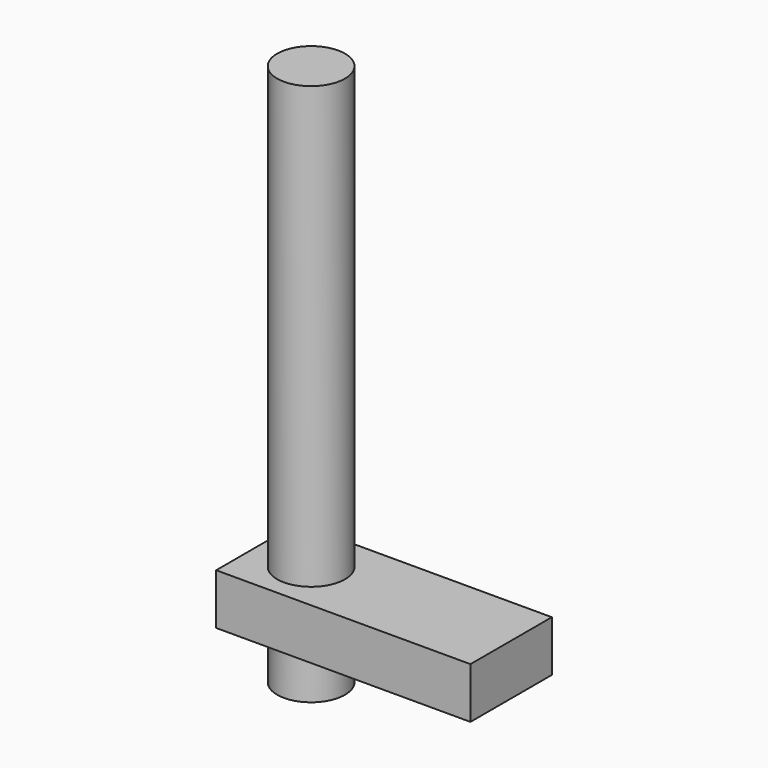
from build123d import *

# Parameters (mm, degrees)
BOX018_W                  = 15
BOX018_H                  = 6
BOX018_DEPTH              = 3
CYLINDER058_R             = 1.5
CYLINDER058_DEPTH         = 25
CYLINDER057_R             = 2
CYLINDER057_DEPTH         = 32
FUSION041_PLACEMENT_ANGLE = 180


with BuildPart() as cube015:
    # Box018 → Box018 (new body)
    with BuildSketch(Plane(origin=(58.2, 67, 3), x_dir=(1, 0, 0), z_dir=(0, 0, 1))):
        with Locations((7.5, 3)):
            Rectangle(BOX018_W, BOX018_H)
    extrude(amount=BOX018_DEPTH)


with BuildPart() as cylinder058:
    # Cylinder058 → Cylinder058 (new body)
    with BuildSketch(Plane(origin=(70, 70, 7), x_dir=(1, 0, 0), z_dir=(0, 0, 1))):
        Circle(CYLINDER058_R)
    extrude(amount=CYLINDER058_DEPTH)


with BuildPart() as bohrungfanductupper001:
    # Cylinder057 → Cylinder057 (new body)
    with BuildSketch(Plane(origin=(70, 70, 0), x_dir=(1, 0, 0), z_dir=(0, 0, 1))):
        Circle(CYLINDER057_R)
    extrude(amount=CYLINDER057_DEPTH)

    # Fusion041: union Cube015, Cylinder058
    add(cube015.part)
    add(cylinder058.part)


with BuildPart() as bohrungfanductupper001_1:
    # Fusion041 placement: moved
    add(bohrungfanductupper001.part.moved(Location((112, 63, 7))).rotate(Axis((112, 63, 7), (0, 0, 1)), FUSION041_PLACEMENT_ANGLE))


solid = bohrungfanductupper001_1.part
